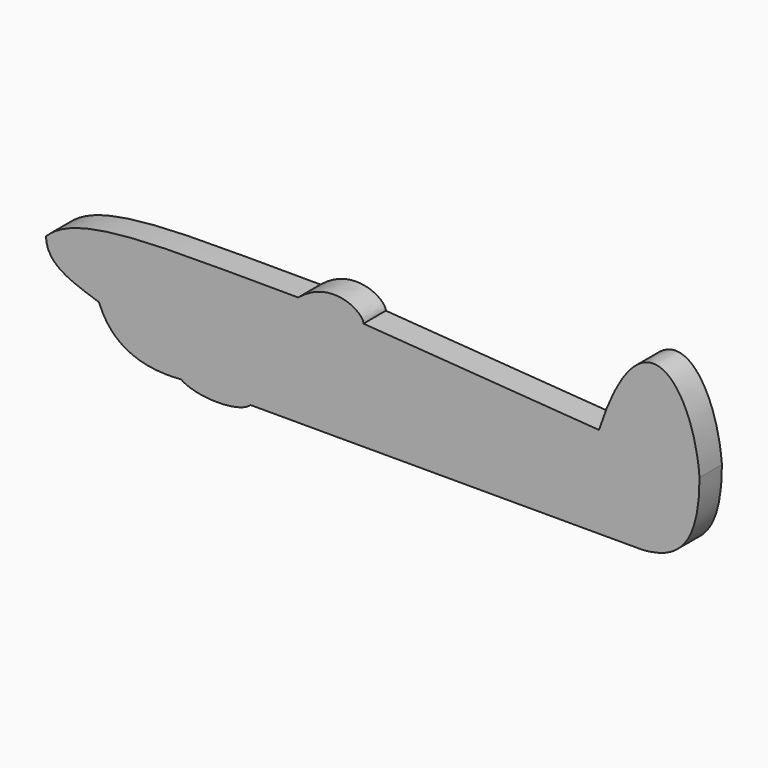
from build123d import *

# Parameters (mm, degrees)
F1_DEPTH = 19.05


with BuildPart() as f1:
    # F0 (on Front) → F1 (new body)
    with BuildSketch(Plane.XZ):
        with BuildLine():
            Line((47.313681, -11.632638), (314.013681, -11.632638))
            add(Edge.make_bspline(
                [(352.715969, 44.274099), (352.715969, 0), (335.928053, -9.905117), (314.013681, -11.632638)],
                knots=[0, 0, 0, 0, 67.995811, 67.995811, 67.995811, 67.995811], degree=3))
            add(Edge.make_bspline(
                [(284.34224, 50.548841), (313.035429, 139.851982), (348.589689, 97.368889), (352.715969, 44.274099)],
                knots=[0, 0, 0, 0, 68.661046, 68.661046, 68.661046, 68.661046], degree=3))
            Line((284.34224, 50.548841), (124.115969, 62.091228))
            add(Edge.make_bspline(
                [(79.665969, 63.324099), (102.446698, 82.186237), (124.115969, 68.843909), (124.115969, 62.091228)],
                knots=[0, 0, 0, 0, 44.467094, 44.467094, 44.467094, 44.467094], degree=3))
            add(Edge.make_bspline(
                [(-91.784031, 44.274099), (-69.512811, 66.651346), (-11.597474, 63.266684), (79.665969, 63.324099)],
                knots=[0, 0, 0, 0, 172.505087, 172.505087, 172.505087, 172.505087], degree=3))
            add(Edge.make_bspline(
                [(-91.784031, 44.274099), (-91.784031, 26.056429), (-69.163285, 21.455625), (-55.820961, 16.394742)],
                knots=[0, 0, 0, 0, 45.503857, 45.503857, 45.503857, 45.503857], degree=3))
            add(Edge.make_bspline(
                [(-55.820961, 16.394742), (-49.379837, 0), (-35.117339, -14.430643), (0, -11.632638)],
                knots=[0, 0, 0, 0, 62.462098, 62.462098, 62.462098, 62.462098], degree=3))
            add(Edge.make_bspline(
                [(47.313681, -11.632638), (39.288981, -19.225901), (10.748499, -19.225901), (0, -11.632638)],
                knots=[0, 0, 0, 0, 47.313681, 47.313681, 47.313681, 47.313681], degree=3))
        make_face()
    extrude(amount=F1_DEPTH)


solid = f1.part
